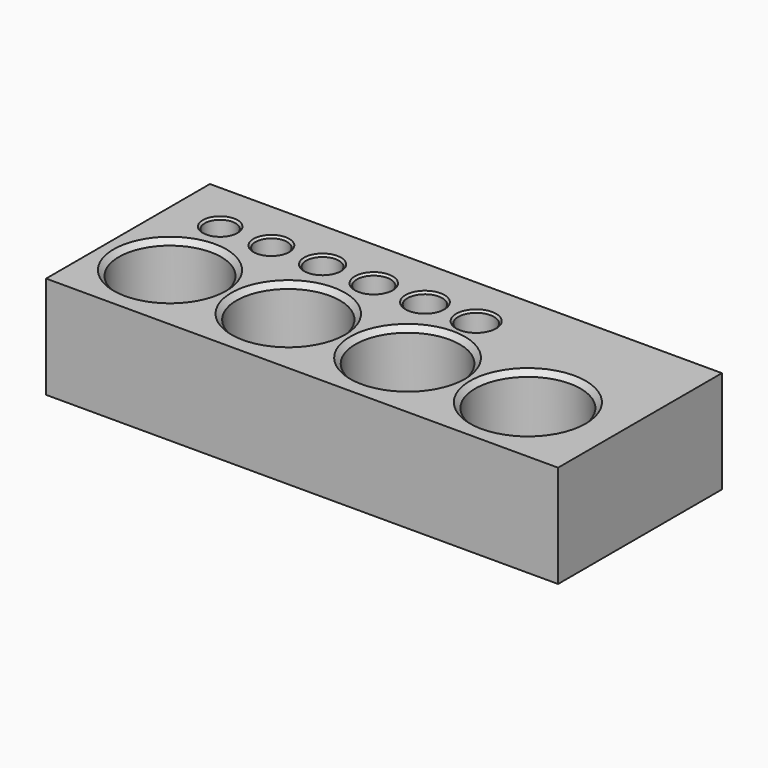
from build123d import *

# Parameters (mm, degrees)
SKETCH_W        = 50
SKETCH_H        = 20
PAD_DEPTH       = 10
SKETCH001_R     = 1.5
SKETCH001_R_2   = 1.55
SKETCH001_R_3   = 1.6
SKETCH001_R_4   = 1.7
SKETCH001_R_5   = 1.75
SKETCH001_R_6   = 1.65
SKETCH001_R_7   = 5
SKETCH001_R_8   = 5.05
SKETCH001_R_9   = 5.1
SKETCH001_R_10  = 5.15
POCKET_DEPTH    = 10.001
CHAMFER_SIZE    = 0.5
CHAMFER001_SIZE = 0.5
CHAMFER002_SIZE = 0.5
CHAMFER003_SIZE = 0.2


with BuildPart() as part:
    # Sketch → Pad (new body)
    with BuildSketch(Plane.XY):
        with Locations((25, 10)):
            Rectangle(SKETCH_W, SKETCH_H)
    extrude(amount=PAD_DEPTH)

    # Sketch001 (on Face6 of Pad) → Pocket (cut, through all)
    with BuildSketch(Plane.XY.offset(10)):
        with Locations((5, 15)):
            Circle(SKETCH001_R)
        with Locations((10, 15)):
            Circle(SKETCH001_R_2)
        with Locations((15, 15)):
            Circle(SKETCH001_R_3)
        with Locations((25, 15)):
            Circle(SKETCH001_R_4)
        with Locations((30, 15)):
            Circle(SKETCH001_R_5)
        with Locations((20, 15)):
            Circle(SKETCH001_R_6)
        with Locations((6.5, 7)):
            Circle(SKETCH001_R_7)
        with Locations((18.05, 7)):
            Circle(SKETCH001_R_8)
        with Locations((29.7, 7)):
            Circle(SKETCH001_R_9)
        with Locations((41.45, 7)):
            Circle(SKETCH001_R_10)
    extrude(amount=-POCKET_DEPTH, mode=Mode.SUBTRACT)

    # Chamfer
    chamfer_edges = [part.edges().sort_by_distance(p)[0] for p in [
        (1.5, 7, 10),
    ]]
    chamfer(chamfer_edges, length=CHAMFER_SIZE)

    # Chamfer001
    chamfer001_edges = [part.edges().sort_by_distance(p)[0] for p in [
        (13, 7, 10),
        (24.6, 7, 10),
    ]]
    chamfer(chamfer001_edges, length=CHAMFER001_SIZE)

    # Chamfer002
    chamfer002_edges = [part.edges().sort_by_distance(p)[0] for p in [
        (36.3, 7, 10),
    ]]
    chamfer(chamfer002_edges, length=CHAMFER002_SIZE)

    # Chamfer003
    chamfer003_edges = [part.edges().sort_by_distance(p)[0] for p in [
        (3.5, 15, 10),
        (8.45, 15, 10),
        (13.4, 15, 10),
        (18.35, 15, 10),
        (23.3, 15, 10),
        (28.25, 15, 10),
    ]]
    chamfer(chamfer003_edges, length=CHAMFER003_SIZE)


solid = part.part
